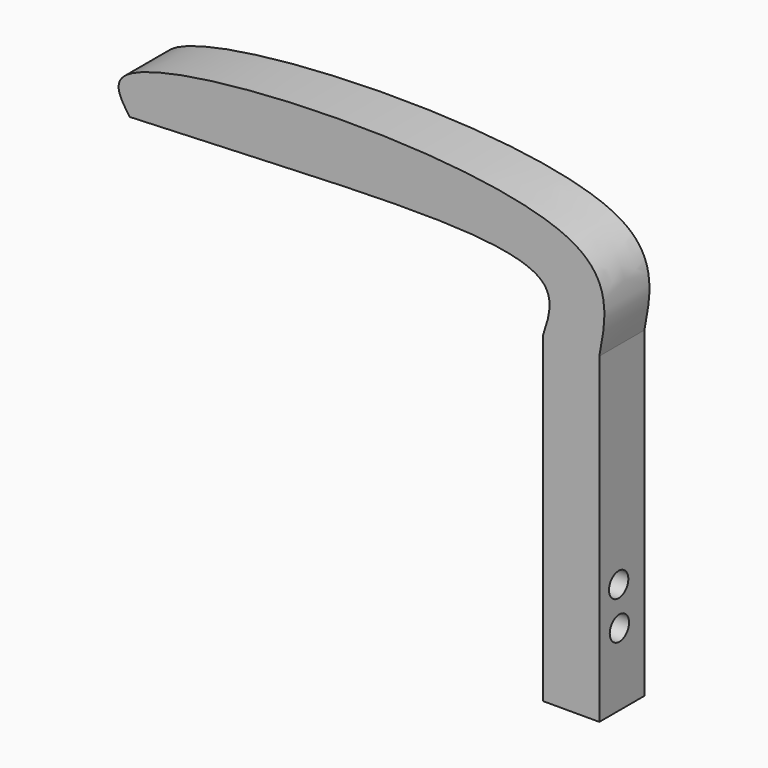
from build123d import *

# Parameters (mm, degrees)
F0_W     = 7
F0_H     = 40
F1_DEPTH = 7
F2_R     = 1.5
F3_DEPTH = 7.6238872514


with BuildPart() as f1:
    # F0 (on Front) → F1 (new body)
    with BuildSketch(Plane.XZ):
        with BuildLine():
            add(Edge.make_bspline(
                [(-7, 40), (-6.2522225416, 42.1795972696), (-3.7497406333, 50.7348018196), (-33.0646908606, 48.0208553051), (-58.3301670849, 47.1870452166)],
                knots=[0, 0, 0, 0, 0.2509537963, 1, 1, 1, 1], degree=3))
            Line((-7, 40), (0, 40))
            add(Edge.make_bspline(
                [(0, 40), (0.8351580805, 44.3581387202), (3.4653096101, 58.0831633462), (-64.3366596219, 55.622765995), (-59.4076581796, 48.7003100645), (-58.3301670849, 47.1870452166)],
                knots=[0, 0, 0, 0, 0.26662643, 0.8396828445, 1, 1, 1, 1], degree=3))
        make_face()
        with Locations((-3.5, 20)):
            Rectangle(F0_W, F0_H)
    extrude(amount=F1_DEPTH)

    # F2 (on face) → F3 (cut, through all)
    with BuildSketch(Plane(origin=(-7, 0, 0), x_dir=(0, -1, 0), z_dir=(-1, 0, 0))):
        with Locations((4, 13.81)):
            Circle(F2_R)
        with Locations((3.8853564765, 9)):
            Circle(F2_R)
    extrude(amount=-F3_DEPTH, mode=Mode.SUBTRACT)


solid = f1.part
